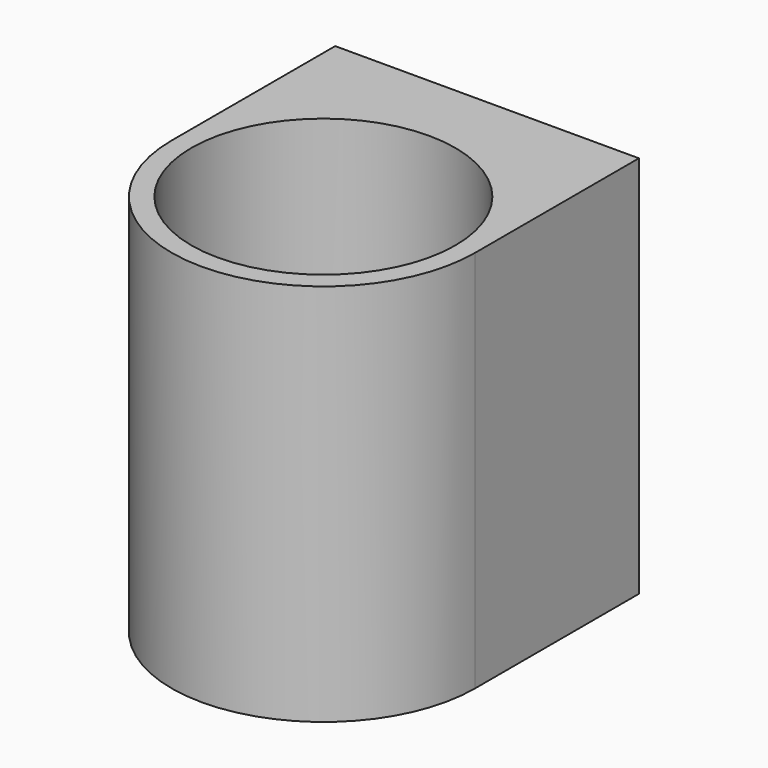
from build123d import *

# Parameters (mm, degrees)
F1_DEPTH = 43
F2_R     = 14.8013323082
F4_DEPTH = 42.1
F3_R     = 10.3723176452
F5_DEPTH = 43.001


with BuildPart() as f1:
    # F0 (on Top) → F1 (new body)
    with BuildSketch(Plane.XY):
        with BuildLine():
            Line((17.0280970633, 0), (17.0280970633, 22.9404084384))
            Line((17.0280970633, 22.9404084384), (-17.0280970633, 22.9404084384))
            Line((-17.0280970633, 22.9404084384), (-17.0280970633, 0))
            ThreePointArc((-17.0280970633, 0), (0, -17.0280970633), (17.0280970633, 0))
        make_face()
    extrude(amount=F1_DEPTH)

    # F2 (on face) → F4 (cut)
    with BuildSketch(Plane.XY.offset(43)):
        Circle(F2_R)
    extrude(amount=-F4_DEPTH, mode=Mode.SUBTRACT)

    # F3 (on face) → F5 (cut, through all)
    with BuildSketch(Plane.XY.offset(43)):
        Circle(F3_R)
    extrude(amount=-F5_DEPTH, mode=Mode.SUBTRACT)


solid = f1.part
